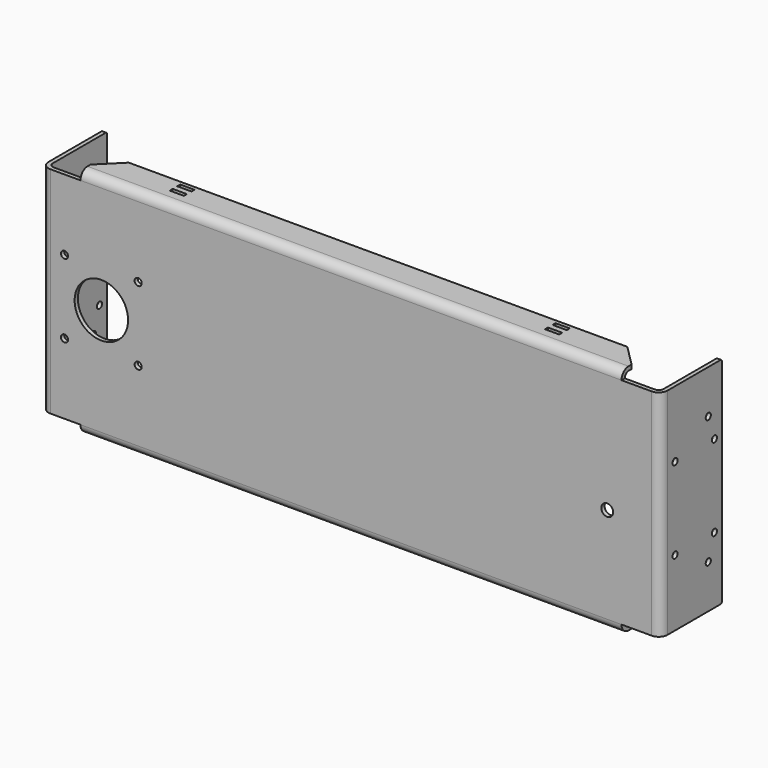
from build123d import *

# Parameters (mm, degrees)
F1_DEPTH  = 90.5500094
F2_R      = 11.2530001
F2_R_2    = 1.5
F2_R_3    = 2.5
F3_DEPTH  = 1.70942
F4_R      = 1.35255
F5_DEPTH  = 260.59384
F6_R      = 0.762
F7_R      = 1.35255
F8_DEPTH  = 260.59384
F9_W      = 227.80752
F9_H      = 3.69316
F10_DEPTH = 1.70942
F11_W     = 227.80752
F11_H     = 1.70942
F12_DEPTH = 12.5218698
F13_R     = 3.69316
F14_R     = 1.98374
F15_SIZE  = 8.9506298
F16_W     = 6
F16_H     = 1.5875
F17_DEPTH = 97.9363294


with BuildPart() as f1:
    # F0 (on Top) → F1 (new body)
    with BuildSketch(Plane.XY):
        Polygon((0, -30.6212494), (0, 0), (-1.70942, 0), (-1.70942, -32.3306694), (258.88442, -32.3306694), (258.88442, 0), (257.175, 0), (257.175, -30.6212494), align=None)
    extrude(amount=F1_DEPTH)

    # F2 (on face) → F3 (cut, through all)
    with BuildSketch(Plane.XZ.offset(32.3306694)):
        with Locations((23.4867323, 45.2750047)):
            Circle(F2_R)
        with Locations((7.9867379, 29.7750103)):
            Circle(F2_R_2)
        with Locations((38.9867267, 29.7750103)):
            Circle(F2_R_2)
        with Locations((38.9867267, 60.7749991)):
            Circle(F2_R_2)
        with Locations((7.9867379, 60.7749991)):
            Circle(F2_R_2)
        with Locations((236.4749906, 40.4499953)):
            Circle(F2_R_3)
    extrude(amount=-F3_DEPTH, mode=Mode.SUBTRACT)

    # F4 (on face) → F5 (cut, through all)
    with BuildSketch(Plane.YZ.offset(258.88442)):
        with Locations((-7.174992, 18.3187594)):
            Circle(F4_R)
        with Locations((-7.174992, 72.23125)):
            Circle(F4_R)
    extrude(amount=-F5_DEPTH, mode=Mode.SUBTRACT)

    # F6
    f6_edges = [f1.edges().sort_by_distance(p)[0] for p in [
        (258.02971, 0, 90.550009),
        (258.02971, 0, 0),
        (-0.85471, 0, 90.550009),
        (-0.85471, 0, 0),
    ]]
    fillet(f6_edges, radius=F6_R)

    # F7 (on face) → F8 (cut, through all)
    with BuildSketch(Plane.YZ.offset(258.88442)):
        with Locations((-24.6687594, 27.9687528)):
            Circle(F7_R)
        with Locations((-3.96875, 27.9687528)):
            Circle(F7_R)
        with Locations((-3.96875, 62.5812566)):
            Circle(F7_R)
        with Locations((-24.6687594, 62.5812566)):
            Circle(F7_R)
    extrude(amount=-F8_DEPTH, mode=Mode.SUBTRACT)

    # F9 (on face) → F10 (join, through all)
    with BuildSketch(Plane(origin=(0, -30.6212494, 0), x_dir=(-1, 0, 0), z_dir=(0, 1, 0))):
        with Locations((-128.5875, -1.84658)):
            Rectangle(F9_W, F9_H)
        with Locations((-128.5875, 92.3965894)):
            Rectangle(F9_W, F9_H)
    extrude(amount=-F10_DEPTH)

    # F11 (on face) → F12 (join)
    with BuildSketch(Plane(origin=(0, -30.6212494, 0), x_dir=(-1, 0, 0), z_dir=(0, 1, 0))):
        with Locations((-128.5875, 93.3884594)):
            Rectangle(F11_W, F11_H)
        with Locations((-128.5875, -2.83845)):
            Rectangle(F11_W, F11_H)
    extrude(amount=F12_DEPTH)

    # F13
    f13_edges = [f1.edges().sort_by_distance(p)[0] for p in [
        (-1.70942, -32.330669, 45.275005),
        (258.88442, -32.330669, 45.275005),
        (128.5875, -32.330669, 94.243169),
        (128.5875, -32.330669, -3.69316),
    ]]
    fillet(f13_edges, radius=F13_R)

    # F14
    f14_edges = [f1.edges().sort_by_distance(p)[0] for p in [
        (0, -30.621249, 45.275005),
        (257.175, -30.621249, 45.275005),
        (128.5875, -30.621249, 92.533749),
        (128.5875, -30.621249, -1.98374),
    ]]
    fillet(f14_edges, radius=F14_R)

    # F15
    f15_edges = [f1.edges().sort_by_distance(p)[0] for p in [
        (14.68374, -18.09938, 93.388459),
        (242.49126, -18.09938, 93.388459),
        (242.49126, -18.09938, -2.83845),
        (14.68374, -18.09938, -2.83845),
    ]]
    chamfer(f15_edges, length=F15_SIZE)

    # F16 (on face) → F17 (cut, through all)
    with BuildSketch(Plane(origin=(0, 0, -3.69316), x_dir=(1, 0, 0), z_dir=(0, 0, -1))):
        with Locations((49.5772186, 20.4806296)):
            Rectangle(F16_W, F16_H)
        with Locations((207.5977814, 20.4806296)):
            Rectangle(F16_W, F16_H)
        with Locations((49.5772186, 24.4493796)):
            Rectangle(F16_W, F16_H)
        with Locations((207.5977814, 24.4493796)):
            Rectangle(F16_W, F16_H)
    extrude(amount=-F17_DEPTH, mode=Mode.SUBTRACT)


solid = f1.part
